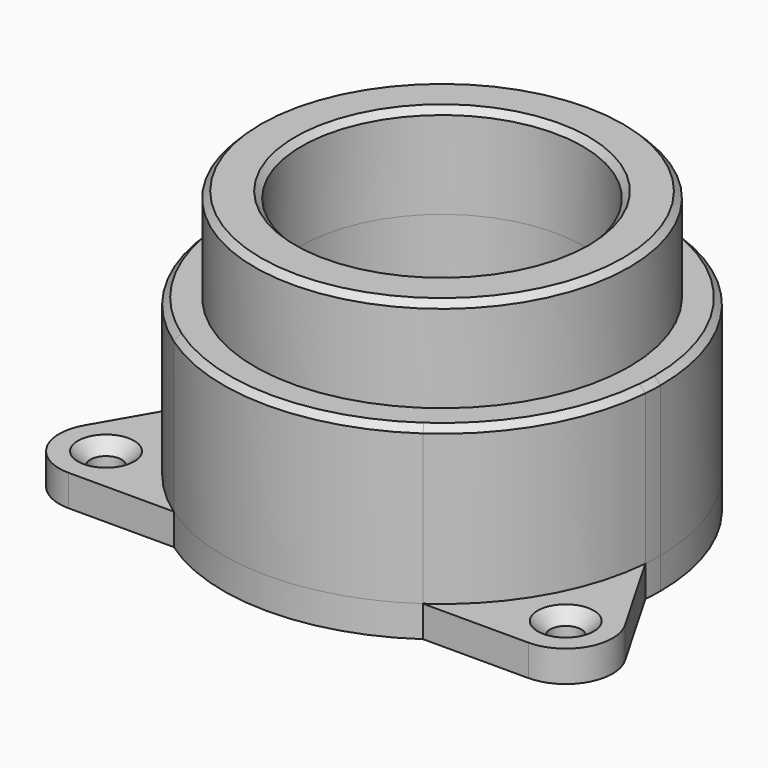
from build123d import *

# Parameters (mm, degrees)
F0_R     = 22.5
F1_DEPTH = 25
F0_R_2   = 2.5
F2_DEPTH = 5
F3_R     = 30
F3_R_2   = 22.5
F4_DEPTH = 15
F5_SIZE  = 1
F6_SIZE  = 2


with BuildPart() as f1:
    # F0 (on Top) → F1 (new body)
    with BuildSketch(Plane.XY):
        with BuildLine():
            ThreePointArc((34.878679998, -2.9116458574), (34.9696568465, -1.4570861455), (35, 0))
            ThreePointArc((35, 0), (29.556068118, 18.7467020408), (14.9177807196, 31.6616458574))
            ThreePointArc((14.9177807196, 31.6616458574), (0, 35), (-14.9177807196, 31.6616458574))
            ThreePointArc((-14.9177807196, 31.6616458574), (-30.3108891325, 17.5), (-34.878679998, -2.9116458574))
            ThreePointArc((-34.878679998, -2.9116458574), (-30.3108891325, -17.5), (-19.9608992783, -28.75))
            ThreePointArc((-19.9608992783, -28.75), (0, -35), (19.9608992783, -28.75))
            ThreePointArc((19.9608992783, -28.75), (30.3108891325, -17.5), (34.878679998, -2.9116458574))
        make_face()
        Circle(F0_R, mode=Mode.SUBTRACT)
    extrude(amount=F1_DEPTH)

    # F0 (on Top) → F2 (join)
    with BuildSketch(Plane.XY):
        with BuildLine():
            ThreePointArc((-19.9608992783, -28.75), (-30.3108891325, -17.5), (-34.878679998, -2.9116458574))
            Line((-34.878679998, -2.9116458574), (-43.3012701892, -17.5))
            ThreePointArc((-43.3012701892, -17.5), (-43.3012701892, -25), (-36.8060796608, -28.75))
            Line((-36.8060796608, -28.75), (-19.9608992783, -28.75))
        make_face()
        with Locations((-36.8060796608, -21.25)):
            Circle(F0_R_2, mode=Mode.SUBTRACT)
        with BuildLine():
            Line((43.3012701892, -17.5), (34.878679998, -2.9116458574))
            ThreePointArc((34.878679998, -2.9116458574), (30.3108891325, -17.5), (19.9608992783, -28.75))
            Line((19.9608992783, -28.75), (36.8060796608, -28.75))
            ThreePointArc((36.8060796608, -28.75), (43.3012701892, -25), (43.3012701892, -17.5))
        make_face()
        with Locations((36.8060796608, -21.25)):
            Circle(F0_R_2, mode=Mode.SUBTRACT)
        with BuildLine():
            ThreePointArc((-14.9177807196, 31.6616458574), (0, 35), (14.9177807196, 31.6616458574))
            Line((14.9177807196, 31.6616458574), (6.4951905284, 46.25))
            ThreePointArc((6.4951905284, 46.25), (0, 50), (-6.4951905284, 46.25))
            Line((-6.4951905284, 46.25), (-14.9177807196, 31.6616458574))
        make_face()
        with Locations((0, 42.5)):
            Circle(F0_R_2, mode=Mode.SUBTRACT)
        with BuildLine():
            ThreePointArc((34.878679998, -2.9116458574), (34.9696568465, -1.4570861455), (35, 0))
            ThreePointArc((35, 0), (29.556068118, 18.7467020408), (14.9177807196, 31.6616458574))
            ThreePointArc((14.9177807196, 31.6616458574), (0, 35), (-14.9177807196, 31.6616458574))
            ThreePointArc((-14.9177807196, 31.6616458574), (-30.3108891325, 17.5), (-34.878679998, -2.9116458574))
            ThreePointArc((-34.878679998, -2.9116458574), (-30.3108891325, -17.5), (-19.9608992783, -28.75))
            ThreePointArc((-19.9608992783, -28.75), (0, -35), (19.9608992783, -28.75))
            ThreePointArc((19.9608992783, -28.75), (30.3108891325, -17.5), (34.878679998, -2.9116458574))
        make_face()
        Circle(F0_R, mode=Mode.SUBTRACT)
    extrude(amount=-F2_DEPTH)

    # F3 (on face) → F4 (join)
    with BuildSketch(Plane.XY.offset(25)):
        Circle(F3_R)
        Circle(F3_R_2, mode=Mode.SUBTRACT)
    extrude(amount=F4_DEPTH)

    # F5
    f5_edges = [f1.edges().sort_by_distance(p)[0] for p in [
        (-22.5, 0, 40),
        (-30, 0, 40),
        (34.87868, 2.911646, 25),
    ]]
    chamfer(f5_edges, length=F5_SIZE)

    # F6
    f6_edges = [f1.edges().sort_by_distance(p)[0] for p in [
        (-2.5, 42.5, 0),
        (34.30608, -21.25, 0),
        (-39.30608, -21.25, 0),
    ]]
    chamfer(f6_edges, length=F6_SIZE)


solid = f1.part
